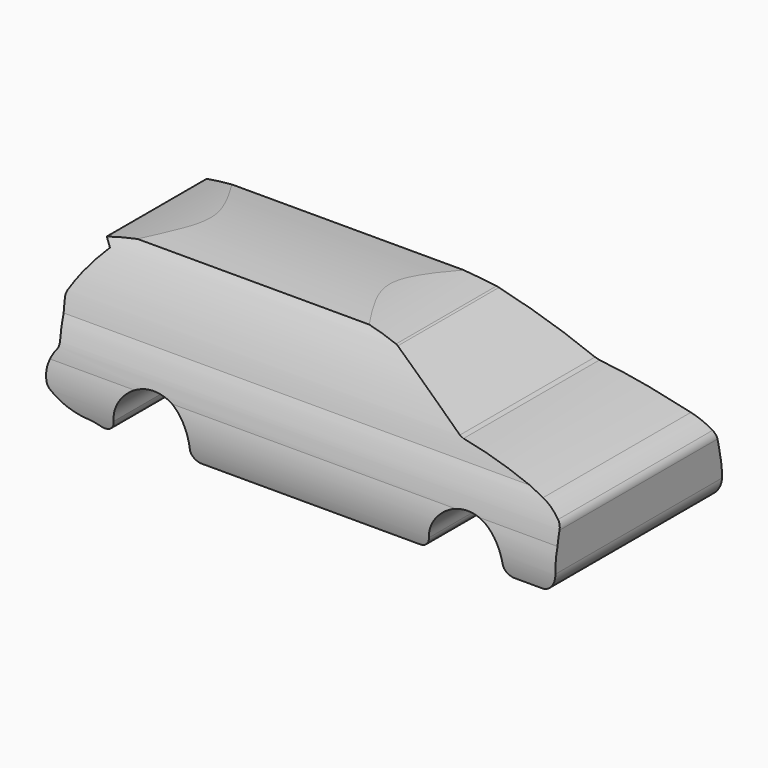
from build123d import *

# Parameters (mm, degrees)
F1_DEPTH = 2000
F2_W     = 2075.554084
F2_H     = 1822.55191
F3_DEPTH = 4888.006733
F4_R     = 100
F5_R     = 500


with BuildPart() as f1:
    # F0 (on Front) → F1 (new body)
    with BuildSketch(Plane.XZ):
        with BuildLine():
            ThreePointArc((696.623534, 265.935368), (1032.179278, 738.495533), (1392.202394, 284.299404))
            Line((1392.202394, 284.299404), (3686.080933, 284.299404))
            ThreePointArc((3686.080933, 284.299404), (4024.756369, 710.081209), (4377.362683, 295.762509))
            Line((4377.362683, 295.762509), (4769.36388, 295.762509))
            ThreePointArc((4769.36388, 295.762509), (4855.506588, 364.110577), (4888.005733, 469.162136))
            Line((4888.005733, 469.162136), (4888.005733, 857.029676))
            ThreePointArc((4888.005733, 857.029676), (4794.689736, 941.337823), (4682.664394, 998.487294))
            ThreePointArc((4682.664394, 998.487294), (4270.352303, 1122.36961), (3847.608328, 1203.828931))
            ThreePointArc((3847.608328, 1203.828931), (3463.525398, 1432.391405), (3067.772865, 1640.094161))
            ThreePointArc((3067.772865, 1640.094161), (2691.645985, 1709.802061), (2309.827566, 1733.154058))
            Line((2309.827566, 1733.154058), (940.883219, 1733.154058))
            ThreePointArc((940.883219, 1733.154058), (619.251927, 1706.095266), (302.042514, 1646.454215))
            Line((302.042514, 1646.454215), (361.3635, 1587.133288))
            ThreePointArc((361.3635, 1587.133288), (206.676734, 1399.511775), (83.011493, 1190.139532))
            Line((83.011493, 1190.139532), (133.206144, 806.835055))
            ThreePointArc((133.206144, 806.835055), (46.352445, 651.473846), (55.632584, 473.725289))
            ThreePointArc((55.632584, 473.725289), (253.226642, 347.529116), (484.568417, 309.451967))
            ThreePointArc((484.568417, 309.451967), (587.959741, 274.847374), (696.623534, 265.935368))
        make_face()
    extrude(amount=-F1_DEPTH)

    # F2 (on Right) → F3 (cut, through all)
    with BuildSketch(Plane.YZ):
        with Locations((994.31839, 870.664267)):
            Rectangle(F2_W, F2_H)
        with BuildLine():
            ThreePointArc((1921.236659, 152.013146), (1000, 79.67089), (78.763341, 152.013146))
            ThreePointArc((78.763341, 152.013146), (11.840421, 418.127704), (34.799785, 691.566002))
            ThreePointArc((34.799785, 691.566002), (74.630359, 873.703693), (142.710354, 1047.271338))
            ThreePointArc((142.710354, 1047.271338), (265.282886, 1384.489519), (438.465264, 1698.731449))
            ThreePointArc((438.465264, 1698.731449), (1000, 1726.260657), (1561.534736, 1698.731449))
            ThreePointArc((1561.534736, 1698.731449), (1734.717114, 1384.489519), (1857.289646, 1047.271338))
            ThreePointArc((1857.289646, 1047.271338), (1922.458797, 872.820628), (1965.200215, 691.566002))
            ThreePointArc((1965.200215, 691.566002), (1988.159579, 418.127704), (1921.236659, 152.013146))
        make_face(mode=Mode.SUBTRACT)
    extrude(amount=F3_DEPTH, mode=Mode.SUBTRACT)

    # F4
    f4_edges = [f1.edges().sort_by_distance(p)[0] for p in [
        (696.623534, 1000, 265.935368),
        (1392.202394, 1000, 284.299404),
        (3686.080933, 1000, 284.299404),
        (4377.362683, 1000, 295.762509),
        (3847.608328, 1000, 1203.828931),
        (4888.005733, 998.429779, 857.029676),
        (3067.772865, 1000, 1640.094161),
        (83.011493, 1000, 1190.139532),
        (133.206144, 998.647571, 806.835055),
        (55.632584, 1000, 473.725289),
    ]]
    fillet(f4_edges, radius=F4_R)

    # F5
    f5_edges = [f1.edges().sort_by_distance(p)[0] for p in [
        (484.568417, 1000, 309.451967),
    ]]
    fillet(f5_edges, radius=F5_R)


solid = f1.part
